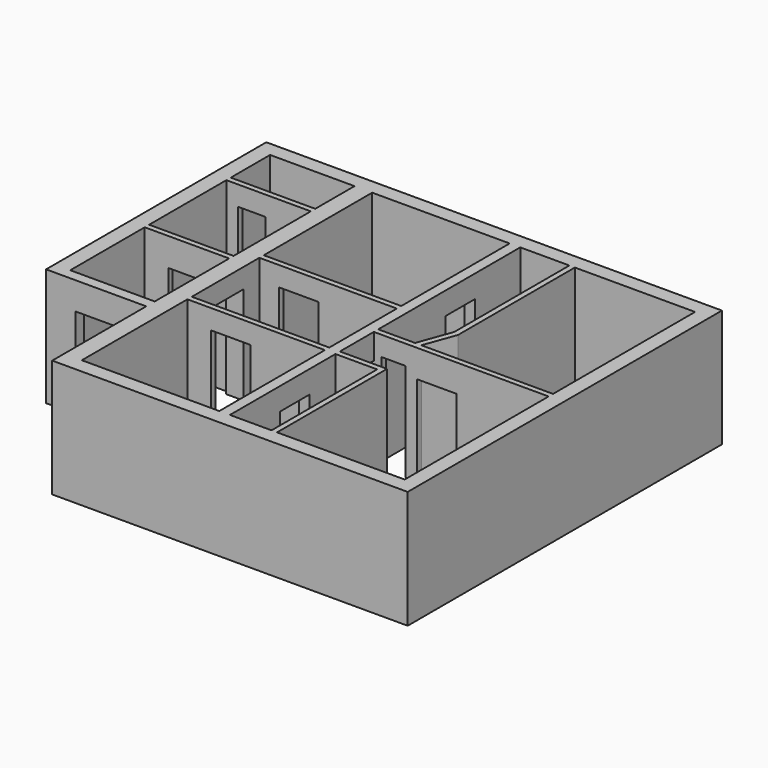
from build123d import *

# Parameters (mm, degrees)
F0_W      = 3500
F0_H      = 3360
F0_W_2    = 2150
F0_H_2    = 2369.4872627268
F0_H_3    = 2150
F0_W_3    = 4450
F0_H_4    = 4580
F0_H_5    = 2458.4248518944
F0_H_6    = 1250
F0_H_7    = 3450
F0_H_8    = 4520
F1_DEPTH  = 3000
F2_W      = 1200
F2_H      = 2300
F3_DEPTH  = 270
F4_W      = 900
F4_H      = 2283.5940655647
F5_DEPTH  = 140
F6_W      = 700
F6_H      = 2500
F7_DEPTH  = 140
F8_W      = 1200
F8_H      = 2500
F9_DEPTH  = 450
F10_W     = 1000
F10_H     = 2500
F11_DEPTH = 140
F12_W     = 1000
F12_H     = 2500
F13_DEPTH = 140
F14_W     = 1000
F14_H     = 2296.2177407754
F15_DEPTH = 140
F16_W     = 942.1310424805
F16_H     = 2427.2427558899
F17_DEPTH = 270
F18_W     = 800
F18_H     = 2353.111743927
F19_DEPTH = 270
F20_W     = 600
F20_H     = 2500
F21_DEPTH = 140
F23_DEPTH = 3000
F25_DEPTH = 3000


with BuildPart() as f1:
    # F0 (on Top) → F1 (new body)
    with BuildSketch(Plane.XY):
        Polygon((4610.9616947174, 4368.4248518944), (-6989.0383052826, 4368.4248518944), (-6989.0383052826, -2639.4872627268), (-4439.0383052826, -2639.4872627268), (-4439.0383052826, -5631.5751481056), (4610.9616947174, -5631.5751481056), align=None)
        with Locations((-2239.0383052826, -3571.5751481056)):
            Rectangle(F0_W, F0_H, mode=Mode.SUBTRACT)
        with Locations((-5514.0383052826, -1184.7436313634)):
            Rectangle(F0_W_2, F0_H_2, mode=Mode.SUBTRACT)
        with Locations((-2239.0383052826, -676.5751481056)):
            Rectangle(F0_W, F0_H_3, mode=Mode.SUBTRACT)
        with Locations((2005.9616947174, -2961.5751481056)):
            Rectangle(F0_W_3, F0_H_4, mode=Mode.SUBTRACT)
        with Locations((-5514.0383052826, 1369.2124259472)):
            Rectangle(F0_W_2, F0_H_5, mode=Mode.SUBTRACT)
        with Locations((-5514.0383052826, 3363.4248518944)):
            Rectangle(F0_W_2, F0_H_6, mode=Mode.SUBTRACT)
        with Locations((-2239.0383052826, 2263.4248518944)):
            Rectangle(F0_W, F0_H_7, mode=Mode.SUBTRACT)
        with Locations((2005.9616947174, 1728.4248518944)):
            Rectangle(F0_W_3, F0_H_8, mode=Mode.SUBTRACT)
    extrude(amount=F1_DEPTH)

    # F2 (on face) → F3 (cut, through all)
    with BuildSketch(Plane.XZ.offset(2639.4872627268)):
        with Locations((-5639.0383052826, 1150)):
            Rectangle(F2_W, F2_H)
    extrude(amount=-F3_DEPTH, mode=Mode.SUBTRACT)

    # F4 (on face) → F5 (cut, through all)
    with BuildSketch(Plane.XZ):
        with Locations((-5539.0383052826, 1141.7970327824)):
            Rectangle(F4_W, F4_H)
    extrude(amount=-F5_DEPTH, mode=Mode.SUBTRACT)

    # F6 (on face) → F7 (cut, through all)
    with BuildSketch(Plane.XZ.offset(-2598.4248518944)):
        with Locations((-5939.0383052826, 1250)):
            Rectangle(F6_W, F6_H)
    extrude(amount=-F7_DEPTH, mode=Mode.SUBTRACT)

    # F8 (on face) → F9 (cut, through all)
    with BuildSketch(Plane(origin=(-4439.0383052826, 0, 0), x_dir=(0, -1, 0), z_dir=(-1, 0, 0))):
        with Locations((700, 1250)):
            Rectangle(F8_W, F8_H)
    extrude(amount=-F9_DEPTH, mode=Mode.SUBTRACT)

    # F10 (on face) → F11 (cut, through all)
    with BuildSketch(Plane.XZ.offset(-398.4248518944)):
        with Locations((-2989.0383052826, 1250)):
            Rectangle(F10_W, F10_H)
    extrude(amount=-F11_DEPTH, mode=Mode.SUBTRACT)

    # F12 (on face) → F13 (cut, through all)
    with BuildSketch(Plane(origin=(0, -1751.5751481056, 0), x_dir=(-1, 0, 0), z_dir=(0, 1, 0))):
        with Locations((2889.0383052826, 1250)):
            Rectangle(F12_W, F12_H)
    extrude(amount=-F13_DEPTH, mode=Mode.SUBTRACT)

    # F14 (on face) → F15 (cut, through all)
    with BuildSketch(Plane(origin=(0, -531.5751481056, 0), x_dir=(-1, 0, 0), z_dir=(0, 1, 0))):
        with Locations((-1380.9616947174, 1148.1088703877)):
            Rectangle(F14_W, F14_H)
    extrude(amount=-F15_DEPTH, mode=Mode.SUBTRACT)

    # F16 (on face) → F17 (cut, through all)
    with BuildSketch(Plane(origin=(-489.0383052826, 0, 0), x_dir=(0, -1, 0), z_dir=(-1, 0, 0))):
        with Locations((3194.3805217743, 1213.6213779449)):
            Rectangle(F16_W, F16_H)
        with Locations((-2076.1382579803, 1213.6213779449)):
            Rectangle(F16_W, F16_H)
    extrude(amount=-F17_DEPTH, mode=Mode.SUBTRACT)

    # F18 (on face) → F19 (cut, through all)
    with BuildSketch(Plane(origin=(-489.0383052826, 0, 0), x_dir=(0, -1, 0), z_dir=(-1, 0, 0))):
        with Locations((1071.5751481056, 1176.5558719635)):
            Rectangle(F18_W, F18_H)
    extrude(amount=-F19_DEPTH, mode=Mode.SUBTRACT)

    # F20 (on face) → F21 (cut, through all)
    with BuildSketch(Plane.XZ.offset(671.5751481056)):
        with Locations((280.9616947174, 1250)):
            Rectangle(F20_W, F20_H)
    extrude(amount=-F21_DEPTH, mode=Mode.SUBTRACT)

    # F22 (on face) → F23 (join, through all)
    with BuildSketch(Plane(origin=(0, 0, 0), x_dir=(1, 0, 0), z_dir=(0, 0, -1))):
        Polygon((1030.9616947174, -3988.4248518944), (1170.9616947174, -3988.4248518944), (1170.9616947174, -271.582269817), (878.6363011635, 531.5751481056), (719.0096352921, 531.5751481056), (1030.9616947174, -325.5060911179), align=None)
    extrude(amount=-F23_DEPTH)

    # F24 (on face) → F25 (join, through all)
    with BuildSketch(Plane(origin=(0, 0, 0), x_dir=(1, 0, 0), z_dir=(0, 0, -1))):
        Polygon((840.9616947174, 1891.5751481056), (-219.0383052826, 1891.5751481056), (-219.0383052826, 1751.5751481056), (980.9616947174, 1751.5751481056), (980.9616947174, 1891.5751481056), (980.9616947174, 5251.5751481056), (840.9616947174, 5251.5751481056), align=None)
    extrude(amount=-F25_DEPTH)


solid = f1.part
